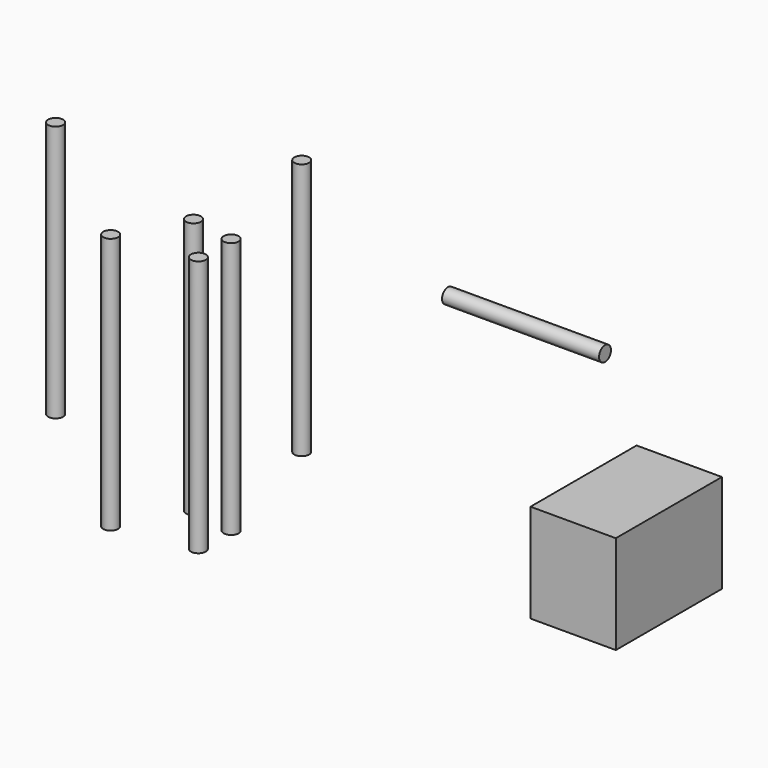
from build123d import *

# Parameters (mm, degrees)
F0_R     = 2.837247
F1_DEPTH = 98.044
F2_W     = 32.570056
F2_H     = 50.606958
F3_DEPTH = 37.592
F4_R     = 2.837247
F5_DEPTH = 59.944


with BuildPart() as f1:
    # F0 (on Top) → F1 (new body)
    with BuildSketch(Plane.XY):
        with Locations((-45.63266, 22.399925)):
            Circle(F0_R)
        with Locations((-47.039185, -27.500222)):
            Circle(F0_R)
        with Locations((-30.29483, -30.444983)):
            Circle(F0_R)
        with Locations((-30.552559, -45.765966)):
            Circle(F0_R)
        with Locations((-118.123457, -4.405636)):
            Circle(F0_R)
        with Locations((-60.083847, -50.678108)):
            Circle(F0_R)
    extrude(amount=F1_DEPTH)


with BuildPart() as f3:
    # F2 (on Top) → F3 (new body)
    with BuildSketch(Plane.XY):
        with Locations((91.111075, 6.262008)):
            Rectangle(F2_W, F2_H)
    extrude(amount=F3_DEPTH)


with BuildPart() as f5:
    # F4 (on Right) → F5 (new body)
    with BuildSketch(Plane.YZ):
        with Locations((35.114937, 62.195826)):
            Circle(F4_R)
    extrude(amount=F5_DEPTH)


solid = Compound([f1.part, f3.part, f5.part])
